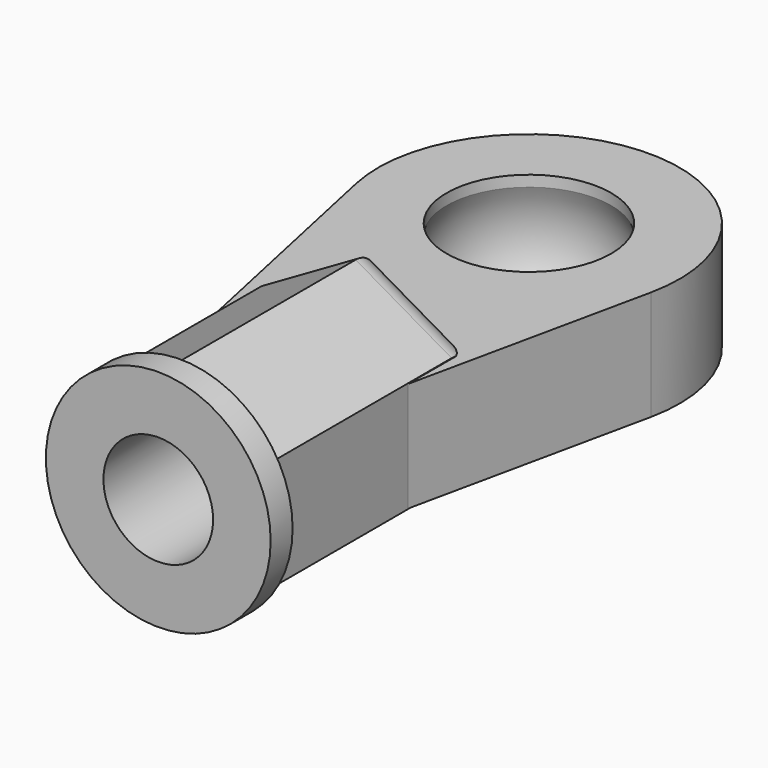
from build123d import *

# Parameters (mm, degrees)
SKETCH_R     = 3
PAD_DEPTH    = 2
PAD001_DEPTH = 9
SKETCH002_R  = 4.1
PAD002_DEPTH = 1
SKETCH003_R  = 2
POCKET_DEPTH = 6
FILLET_R     = 1


with BuildPart() as revolution:
    # Sketch004 → Revolution (revolve)
    with BuildSketch(Plane.XZ):
        with BuildLine():
            ThreePointArc((0, -3.4), (3.4, 0), (0, 3.4))
            Line((0, 3.4), (0, -3.4))
        make_face()
    revolve(axis=Axis((0, 0, 0), (0, 0, 1)))


with BuildPart() as cut:
    # Sketch → Pad (new body, symmetric)
    with BuildSketch(Plane.XY):
        with BuildLine():
            ThreePointArc((5.377475, -1.154453), (0, 5.5), (-5.377475, -1.154453))
            Line((-3.5, -9.9), (-5.377475, -1.154453))
            Line((-3.5, -15.9), (-3.5, -9.9))
            Line((3.5, -15.9), (-3.5, -15.9))
            Line((3.5, -9.9), (3.5, -15.9))
            Line((5.377475, -1.154453), (3.5, -9.9))
        make_face()
        Circle(SKETCH_R, mode=Mode.SUBTRACT)
    extrude(amount=PAD_DEPTH, both=True)

    # Sketch001 → Pad001 (new body)
    with BuildSketch(Plane.XZ.offset(15.9)):
        Polygon((3.5, 2.020726), (0, 4.041452), (-3.5, 2.020726), (-3.5, -2.020726), (0, -4.041452), (3.5, -2.020726), align=None)
    extrude(amount=-PAD001_DEPTH)

    # Sketch002 → Pad002 (new body)
    with BuildSketch(Plane.XZ.offset(15.9)):
        Circle(SKETCH002_R)
    extrude(amount=PAD002_DEPTH)

    # Sketch003 → Pocket (cut)
    with BuildSketch(Plane.XZ.offset(16.9)):
        Circle(SKETCH003_R)
    extrude(amount=-POCKET_DEPTH, mode=Mode.SUBTRACT)

    # Fillet
    fillet_edges = [cut.edges().sort_by_distance(p)[0] for p in [
        (-1.75, -6.9, 3.031089),
        (1.75, -6.9, 3.031089),
        (-1.75, -6.9, -3.031089),
        (1.75, -6.9, -3.031089),
    ]]
    fillet(fillet_edges, radius=FILLET_R)

    # Cut: cut Revolution
    add(revolution.part, mode=Mode.SUBTRACT)


solid = cut.part
